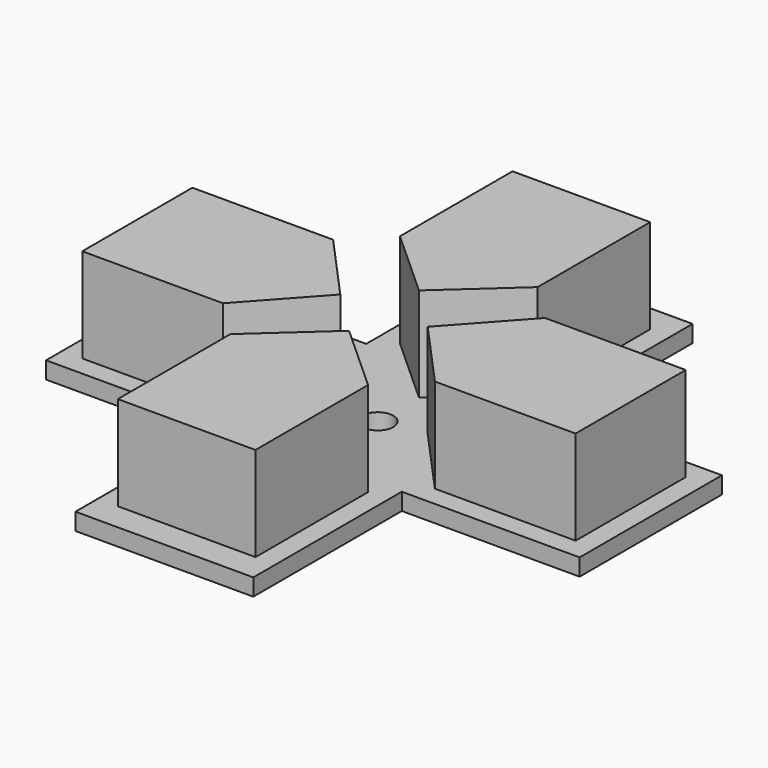
from build123d import *

# Parameters (mm, degrees)
F1_DEPTH = 1.1
F2_W     = 9.1
F2_H     = 8.9
F2_W_2   = 8.9
F2_H_2   = 9.1
F3_DEPTH = 6.1
F2_R     = 1
F4_DEPTH = 1.101


with BuildPart() as f1:
    # F0 (on Top) → F1 (new body)
    with BuildSketch(Plane.XY):
        Polygon((-11.5, 11.5), (-23, 11.5), (-23, 0), (-11.5, 0), (-11.5, -12), (0, -12), (0, 0), (11.5, 0), (11.5, 11.5), (0, 11.5), (0, 23.5), (-11.5, 23.5), align=None)
    extrude(amount=F1_DEPTH)

    # F2 (on face) → F3 (join)
    with BuildSketch(Plane.XY.offset(1.1)):
        with Locations((-17.15, 5.75)):
            Rectangle(F2_W, F2_H)
        Polygon((-8.575388, 5.75), (-12.6, 10.2), (-12.6, 1.3), align=None)
        Polygon((-5.75, 2.924612), (-10.2, -1.1), (-1.3, -1.1), align=None)
        with Locations((-5.75, -5.65)):
            Rectangle(F2_W_2, F2_H_2)
        with Locations((5.65, 5.75)):
            Rectangle(F2_W, F2_H)
        Polygon((1.1, 1.3), (1.1, 10.2), (-2.924612, 5.75), align=None)
        Polygon((-1.3, 12.6), (-10.2, 12.6), (-5.75, 8.575388), align=None)
        with Locations((-5.75, 17.15)):
            Rectangle(F2_W_2, F2_H_2)
    extrude(amount=F3_DEPTH)

    # F2 (on face) → F4 (cut, through all)
    with BuildSketch(Plane.XY.offset(1.1)):
        with Locations((-5.75, 5.249888)):
            Circle(F2_R)
    extrude(amount=-F4_DEPTH, mode=Mode.SUBTRACT)


solid = f1.part
